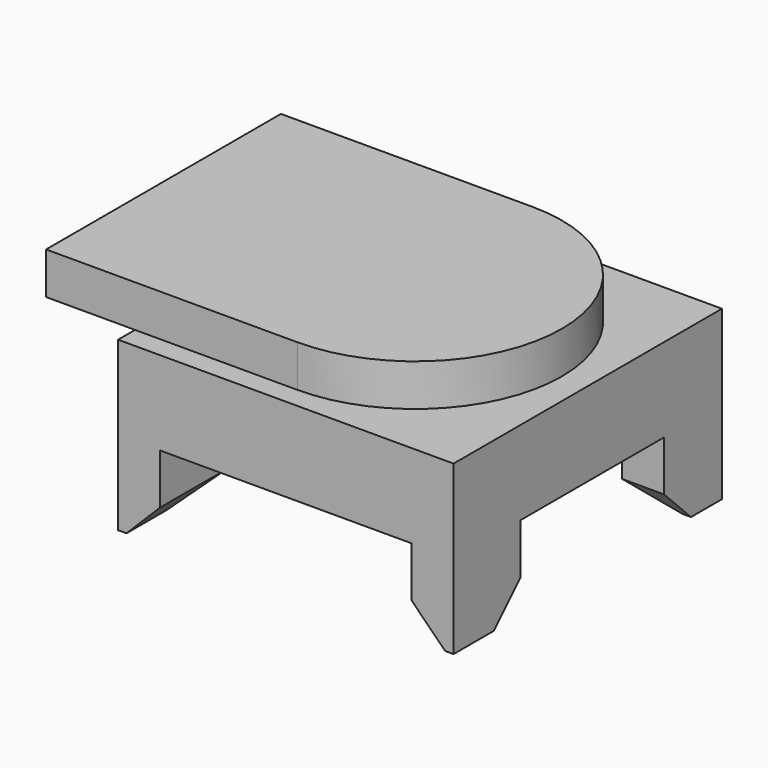
from build123d import *

# Parameters (mm, degrees)
F0_W     = 50.8
F0_H     = 50.8
F1_DEPTH = 12.7
F2_W     = 6.35
F2_H     = 12.7
F2_H_2   = 10.934927
F3_DEPTH = 12.7
F4_SIZE  = 5.08
F5_R     = 22.225
F6_DEPTH = 6.35
F7_W     = 38.1
F7_H     = 44.45
F8_DEPTH = 6.35


with BuildPart() as f1:
    # F0 (on Top) → F1 (new body)
    with BuildSketch(Plane.XY):
        with Locations((0.767379, -0.027555)):
            Rectangle(F0_W, F0_H)
    extrude(amount=-F1_DEPTH)

    # F2 (on face) → F3 (join)
    with BuildSketch(Plane(origin=(0, 0, -12.7), x_dir=(1, 0, 0), z_dir=(0, 0, -1))):
        with Locations((-21.457621, 19.077555)):
            Rectangle(F2_W, F2_H)
        with Locations((22.992379, 19.077555)):
            Rectangle(F2_W, F2_H)
        with Locations((-21.457621, -19.022445)):
            Rectangle(F2_W, F2_H)
        with Locations((22.992379, -19.904981)):
            Rectangle(F2_W, F2_H_2)
    extrude(amount=F3_DEPTH)

    # F4
    f4_edges = [f1.edges().sort_by_distance(p)[0] for p in [
        (-21.457621, -12.727555, -25.4),
        (-18.282621, -19.077555, -25.4),
        (19.817379, -19.077555, -25.4),
        (22.992379, -12.727555, -25.4),
        (-18.282621, 19.022445, -25.4),
        (-21.457621, 12.672445, -25.4),
        (22.992379, 14.437518, -25.4),
        (19.817379, 19.904981, -25.4),
    ]]
    chamfer(f4_edges, length=F4_SIZE)

    # F5 (on face) → F6 (join)
    with BuildSketch(Plane.XY):
        Circle(F5_R)
    extrude(amount=F6_DEPTH)

    # F7 (on face) → F8 (join)
    with BuildSketch(Plane.XY):
        with Locations((-19.05, 0)):
            Rectangle(F7_W, F7_H)
    extrude(amount=F8_DEPTH)


solid = f1.part
